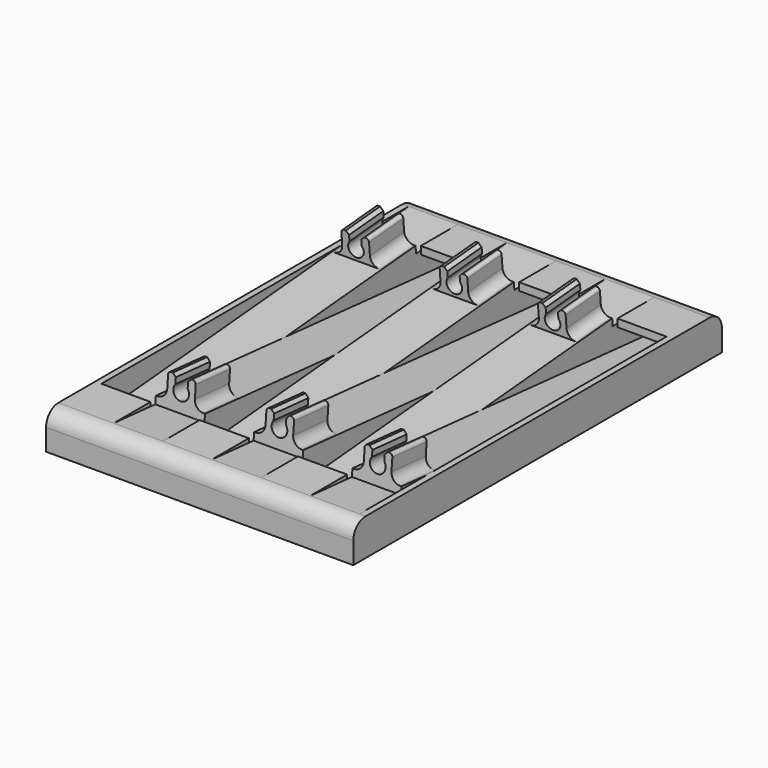
from build123d import *

# Parameters (mm, degrees)
F1_DEPTH  = 16
F3_DEPTH  = 25
F4_SIZE   = 1
F11_ANGLE = 180
F14_DEPTH = 2
F16_DEPTH = 2


with BuildPart() as f1:
    # F0 (on Right) → F1 (new body)
    with BuildSketch(Plane.YZ):
        with BuildLine():
            Line((0, 7), (0, 0))
            Line((0, 0), (150, 0))
            Line((150, 0), (150, 7))
            ThreePointArc((150, 7), (148.5355339059, 10.5355339059), (145, 12))
            Line((145, 12), (128.050036002, 10.517070303))
            Line((128.050036002, 10.517070303), (127.1432693018, 20.8814611121))
            Line((127.1432693018, 20.8814611121), (113.1965435286, 19.6612807136))
            Line((113.1965435286, 19.6612807136), (113.8937894705, 11.6917231289))
            Line((113.8937894705, 11.6917231289), (5.5800139851, 2.2154956702))
            Line((5.5800139851, 2.2154956702), (4.9427024368, 9.5))
            Line((4.9427024368, 9.5), (20, 9.5))
            Line((20, 9.5), (20, 12))
            Line((20, 12), (5, 12))
            ThreePointArc((5, 12), (1.4644660941, 10.5355339059), (0, 7))
        make_face()
    extrude(amount=F1_DEPTH)

    # F2 (on face) → F3 (cut)
    with BuildSketch(Plane(origin=(0, 114.0437613881, 9.9775362673), x_dir=(1, 0, 0), z_dir=(0, -0.9961946981, -0.0871557427))):
        with BuildLine():
            Line((6, 9.7207347769), (6, 6.8026639789))
            ThreePointArc((6, 6.8026639789), (8, 2.6707347769), (10, 6.8026639789))
            Line((10, 6.8026639789), (10, 9.7207347769))
            Line((10, 9.7207347769), (11.5, 9.7207347769))
            ThreePointArc((11.5, 9.7207347769), (12.2071067812, 9.4278415581), (12.5, 8.7207347769))
            Line((12.5, 8.7207347769), (12.5, 4.7207347769))
            ThreePointArc((12.5, 4.7207347769), (13.3786796564, 2.5994144334), (15.5, 1.7207347769))
            Line((15.5, 1.7207347769), (18.5, 1.7207347769))
            Line((18.5, 1.7207347769), (18.5, 10.7207347769))
            Line((18.5, 10.7207347769), (-2.5, 10.7207347769))
            Line((-2.5, 10.7207347769), (-2.5, 1.7207347769))
            Line((-2.5, 1.7207347769), (0.5, 1.7207347769))
            ThreePointArc((0.5, 1.7207347769), (2.6213203436, 2.5994144334), (3.5, 4.7207347769))
            Line((3.5, 4.7207347769), (3.5, 8.7207347769))
            ThreePointArc((3.5, 8.7207347769), (3.7928932188, 9.4278415581), (4.5, 9.7207347769))
            Line((4.5, 9.7207347769), (6, 9.7207347769))
        make_face()
    extrude(amount=-F3_DEPTH, mode=Mode.SUBTRACT)

    # F4
    f4_edges = [f1.edges().sort_by_distance(p)[0] for p in [
        (6, 120.169906, 20.271371),
        (10, 120.169906, 20.271371),
    ]]
    chamfer(f4_edges, length=F4_SIZE)


with BuildPart() as f5_1:
    # F5: copy of F1
    add(f1.part.moved(Location((32, 0, 0))))


with BuildPart() as f6_1:
    # F6: copy of F5_1
    add(f5_1.part.moved(Location((32, 0, 0))))


with BuildPart() as f7_1:
    # F7: copy of F1
    add(f1.part.moved(Location((0, 160, 0))))


with BuildPart() as f8_1:
    # F8: copy of F5_1
    add(f5_1.part.moved(Location((0, 160, 0))))


with BuildPart() as f9_1:
    # F9: copy of F6_1
    add(f6_1.part.moved(Location((0, 160, 0))))


with BuildPart() as f8_1_1:
    # F11: moved
    add(f8_1.part.rotate(Axis((0, 0, 25), (0, 0, 1)), F11_ANGLE))


with BuildPart() as f9_1_1:
    # F11: moved
    add(f9_1.part.rotate(Axis((0, 0, 25), (0, 0, 1)), F11_ANGLE))


with BuildPart() as f7_1_1:
    # F11: moved
    add(f7_1.part.rotate(Axis((0, 0, 25), (0, 0, 1)), F11_ANGLE))


with BuildPart() as f7_1_2:
    # F12: moved
    add(f7_1_1.part.moved(Location((96, 310, 0))))

    # F13 (on face) → F14 (join)
    with BuildSketch(Plane.YZ.offset(96)):
        with BuildLine():
            Line((0, 7), (0, 0))
            Line((0, 0), (150, 0))
            Line((150, 0), (150, 7))
            ThreePointArc((150, 7), (148.5355339059, 10.5355339059), (145, 12))
            Line((145, 12), (5, 12))
            ThreePointArc((5, 12), (1.4644660941, 10.5355339059), (0, 7))
        make_face()
    extrude(amount=F14_DEPTH)


with BuildPart() as f8_1_2:
    # F12: moved
    add(f8_1_1.part.moved(Location((96, 310, 0))))


with BuildPart() as f9_1_2:
    # F12: moved
    add(f9_1_1.part.moved(Location((96, 310, 0))))


with BuildPart() as f1_1:
    add(f1.part)

    add(f5_1.part)  # F16 merges F5_1

    add(f6_1.part)  # F16 merges F6_1

    add(f7_1_2.part)  # F16 merges F7_1

    add(f8_1_2.part)  # F16 merges F8_1

    add(f9_1_2.part)  # F16 merges F9_1
    # F15 (on face) → F16 (join)
    with BuildSketch(Plane(origin=(0, 0, 0), x_dir=(0, -1, 0), z_dir=(-1, 0, 0))):
        with BuildLine():
            Line((-150, 0), (0, 0))
            Line((0, 0), (0, 7))
            ThreePointArc((0, 7), (-1.4644660941, 10.5355339059), (-5, 12))
            Line((-5, 12), (-145, 12))
            ThreePointArc((-145, 12), (-148.5355339059, 10.5355339059), (-150, 7))
            Line((-150, 7), (-150, 0))
        make_face()
    extrude(amount=F16_DEPTH)


solid = f1_1.part
